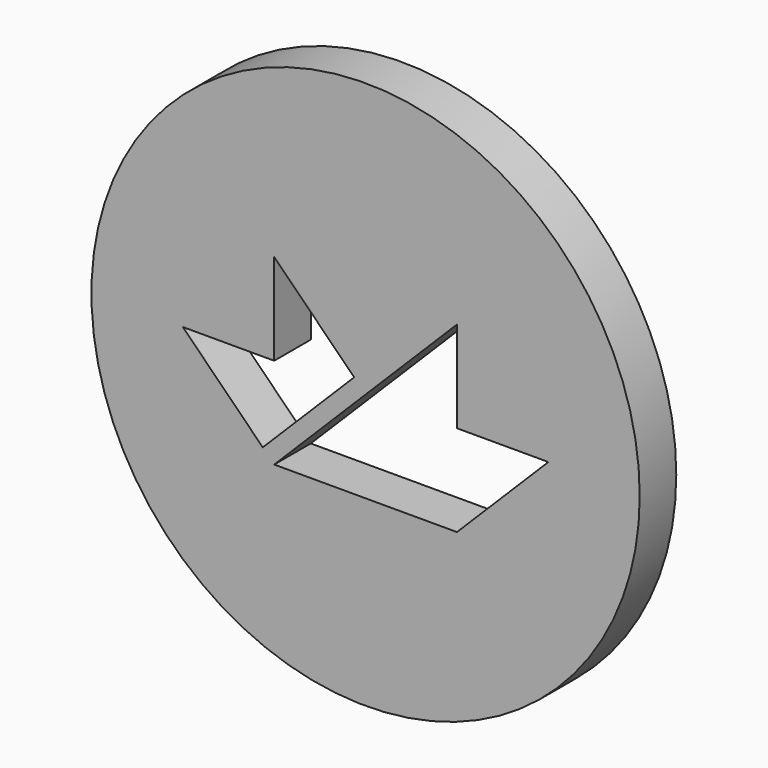
from build123d import *

# Parameters (mm, degrees)
F1_R     = 15
F2_DEPTH = 2.5


with BuildPart() as f2:
    # F1 (on Front) → F2 (new body)
    with BuildSketch(Plane.XZ):
        with Locations((10, 5)):
            Circle(F1_R)
        Polygon((4.375, 0.625), (0, 5), (5, 5), (5, 10), (9.375, 5.625), align=None, mode=Mode.SUBTRACT)
        Polygon((15, 0), (5, 0), (15, 10), (15, 5), (20, 5), align=None, mode=Mode.SUBTRACT)
    extrude(amount=F2_DEPTH)


solid = f2.part
